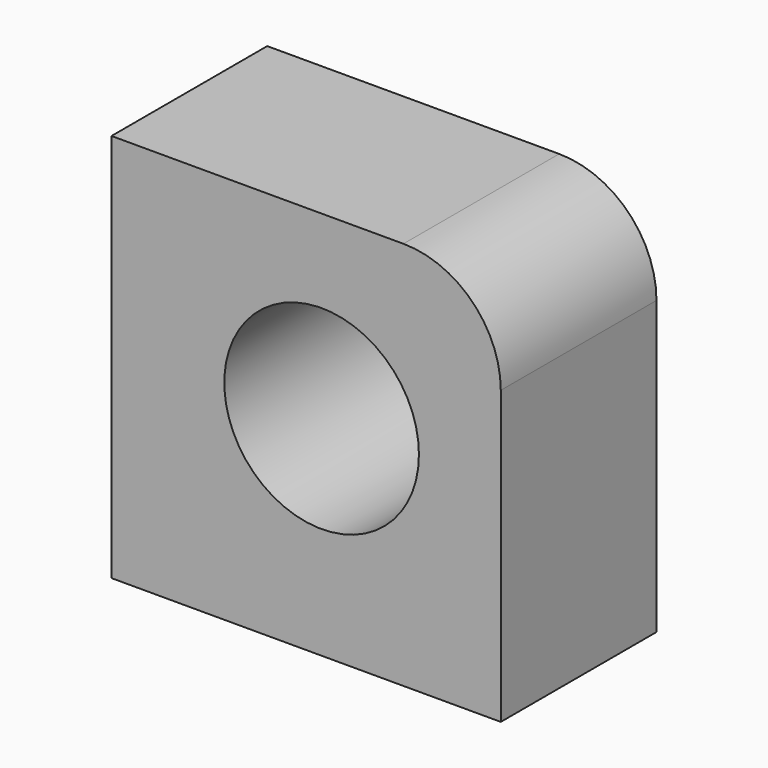
from build123d import *

# Parameters (mm, degrees)
F0_R     = 5
F1_DEPTH = 10


with BuildPart() as f1:
    # F0 (on Front) → F1 (new body)
    with BuildSketch(Plane.XZ):
        with BuildLine():
            Line((-0.794652, 9.272175), (-10.794652, 9.272175))
            Line((-10.794652, 9.272175), (-10.794652, -10.727825))
            Line((-10.794652, -10.727825), (9.205348, -10.727825))
            Line((9.205348, -10.727825), (9.205348, 4.272175))
            ThreePointArc((9.205348, 4.272175), (7.740882, 7.807709), (4.205348, 9.272175))
            Line((4.205348, 9.272175), (0, 9.272175))
            Line((0, 9.272175), (-0.794652, 9.272175))
        make_face()
        Circle(F0_R, mode=Mode.SUBTRACT)
        with BuildLine():
            Line((-0.794652, 9.272175), (-10.794652, 9.272175))
            Line((-10.794652, 9.272175), (-10.794652, -10.727825))
            Line((-10.794652, -10.727825), (9.205348, -10.727825))
            Line((9.205348, -10.727825), (9.205348, 4.272175))
            ThreePointArc((9.205348, 4.272175), (7.740882, 7.807709), (4.205348, 9.272175))
            Line((4.205348, 9.272175), (0, 9.272175))
            Line((0, 9.272175), (-0.794652, 9.272175))
        make_face()
        Circle(F0_R, mode=Mode.SUBTRACT)
    extrude(amount=F1_DEPTH)


solid = f1.part
